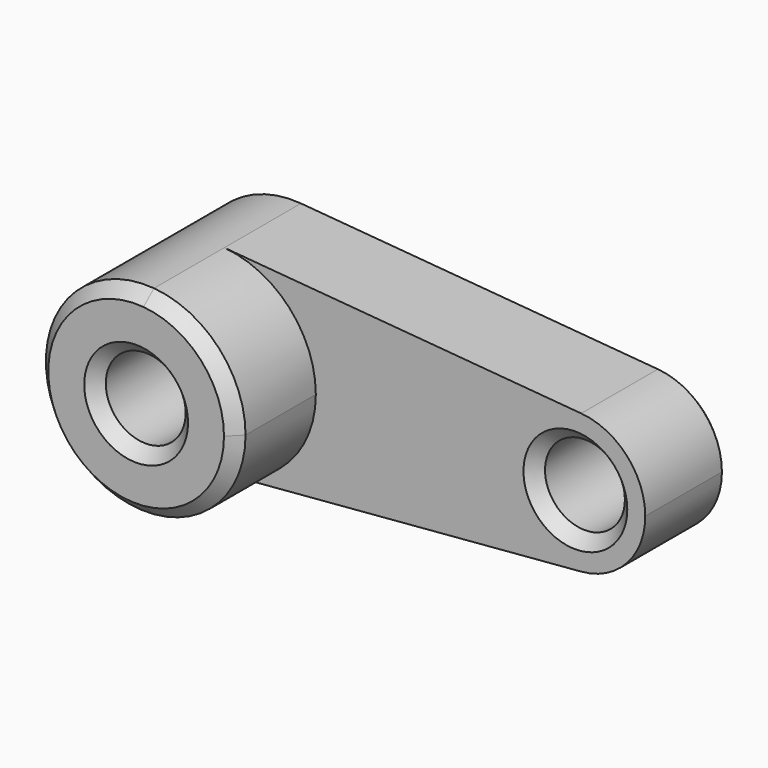
from build123d import *

# Parameters (mm, degrees)
F0_R     = 10
F1_DEPTH = 25
F2_DEPTH = 50
F3_SIZE  = 3
F4_SIZE  = 1


with BuildPart() as f1:
    # F0 (on Front) → F1 (new body)
    with BuildSketch(Plane.XZ):
        with BuildLine():
            ThreePointArc((2.083333, -24.913043), (18.399502, -16.92508), (25, 0))
            ThreePointArc((25, 0), (18.399502, 16.92508), (2.083333, 24.913043))
            ThreePointArc((2.083333, 24.913043), (-25, 0), (2.083333, -24.913043))
        make_face()
        Circle(F0_R, mode=Mode.SUBTRACT)
        with BuildLine():
            ThreePointArc((2.083333, 24.913043), (18.399502, 16.92508), (25, 0))
            ThreePointArc((25, 0), (18.399502, -16.92508), (2.083333, -24.913043))
            Line((2.083333, -24.913043), (91.458333, -17.43913))
            ThreePointArc((91.458333, -17.43913), (72.5, 0), (91.458333, 17.43913))
            Line((91.458333, 17.43913), (2.083333, 24.913043))
        make_face()
        with BuildLine():
            ThreePointArc((107.5, 0), (102.879651, 11.847556), (91.458333, 17.43913))
            ThreePointArc((91.458333, 17.43913), (72.5, 0), (91.458333, -17.43913))
            ThreePointArc((91.458333, -17.43913), (102.879651, -11.847556), (107.5, 0))
        make_face()
        with Locations((90, 0)):
            Circle(F0_R, mode=Mode.SUBTRACT)
    extrude(amount=F1_DEPTH)

    # F0 (on Front) → F2 (join)
    with BuildSketch(Plane.XZ):
        with BuildLine():
            ThreePointArc((2.083333, -24.913043), (18.399502, -16.92508), (25, 0))
            ThreePointArc((25, 0), (18.399502, 16.92508), (2.083333, 24.913043))
            ThreePointArc((2.083333, 24.913043), (-25, 0), (2.083333, -24.913043))
        make_face()
        Circle(F0_R, mode=Mode.SUBTRACT)
    extrude(amount=F2_DEPTH)

    # F3
    f3_edges = [f1.edges().sort_by_distance(p)[0] for p in [
        (-2.083333, -50, 24.913043),
        (-10, -50, 0),
        (80, -25, 0),
    ]]
    chamfer(f3_edges, length=F3_SIZE)

    # F4
    f4_edges = [f1.edges().sort_by_distance(p)[0] for p in [
        (-25, 0, 0),
        (46.770833, 0, -21.176087),
        (107.5, 0, 0),
        (46.770833, 0, 21.176087),
        (-10, 0, 0),
        (80, 0, 0),
    ]]
    chamfer(f4_edges, length=F4_SIZE)


solid = f1.part
